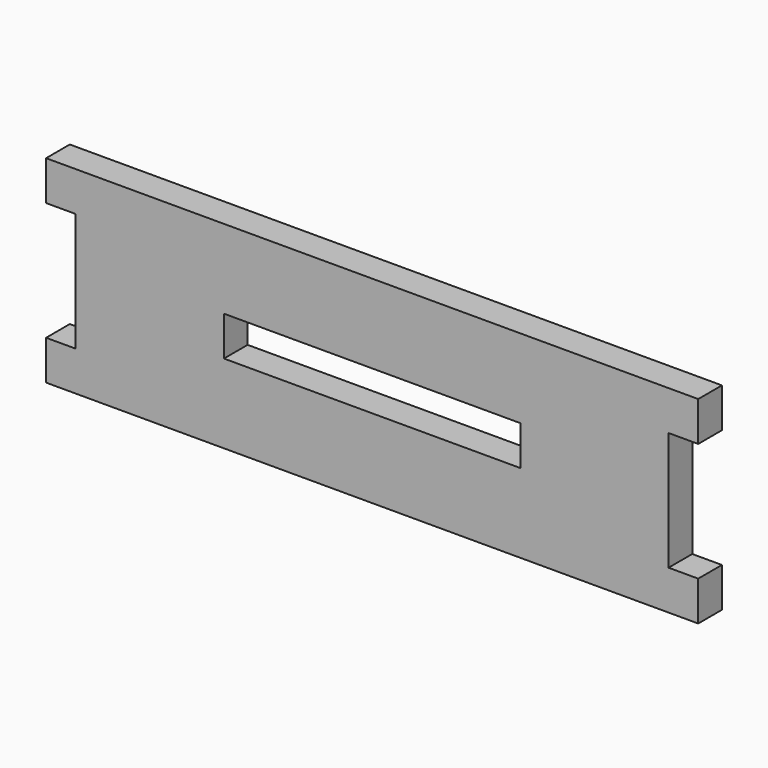
from build123d import *

# Parameters (mm, degrees)
F0_W     = 30
F0_H     = 4
F1_DEPTH = 3


with BuildPart() as f1:
    # F0 (on Front) → F1 (new body)
    with BuildSketch(Plane.XZ):
        Polygon((33, 10), (-33, 10), (-33, 6), (-30, 6), (-30, -6), (-33, -6), (-33, -10), (33, -10), (33, -6), (30, -6), (30, 6), (33, 6), align=None)
        Rectangle(F0_W, F0_H, mode=Mode.SUBTRACT)
    extrude(amount=F1_DEPTH)


solid = f1.part
